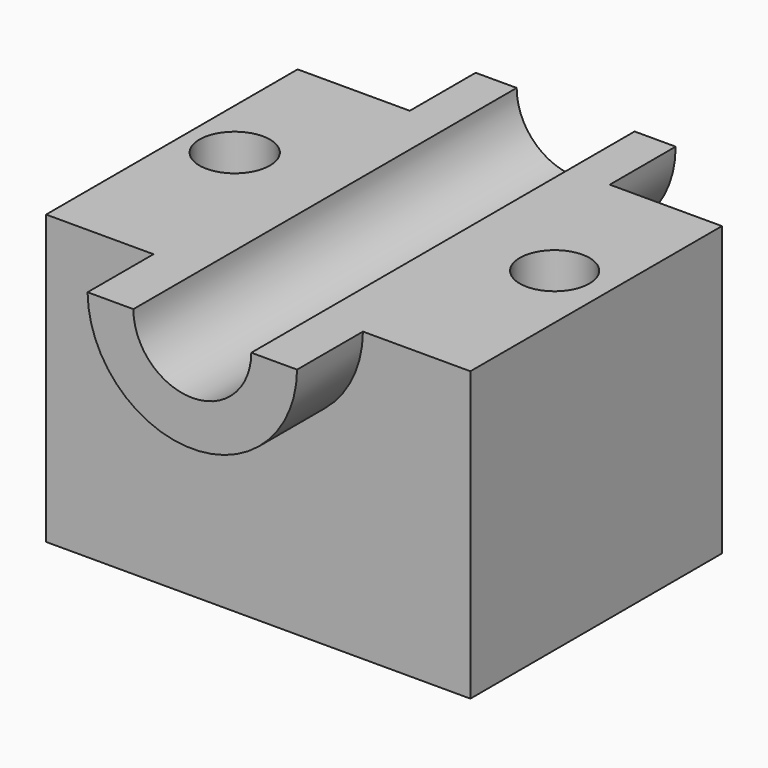
from build123d import *

# Parameters (mm, degrees)
F0_W     = 130.8771371841
F0_H     = 96.983704716
F1_DEPTH = 88.9
F3_DEPTH = 25.4
F5_DEPTH = 25.4
F6_R     = 18.1870915774
F7_DEPTH = 147.784704716
F8_R     = 10.7412616006
F8_R_2   = 10.8772665054
F9_DEPTH = 50.8


with BuildPart() as f1:
    # F0 (on Top) → F1 (new body)
    with BuildSketch(Plane.XY):
        with Locations((12.1337100863, -29.4696222991)):
            Rectangle(F0_W, F0_H)
    extrude(amount=F1_DEPTH)

    # F2 (on face) → F3 (join)
    with BuildSketch(Plane(origin=(0, 19.0222300589, 0), x_dir=(-1, 0, 0), z_dir=(0, 1, 0))):
        with BuildLine():
            Line((18.7113173306, 88.9), (-42.9787375033, 88.9))
            ThreePointArc((-42.9787375033, 88.9), (-12.1337100863, 58.0549725831), (18.7113173306, 88.9))
        make_face()
    extrude(amount=F3_DEPTH)

    # F4 (on face) → F5 (join)
    with BuildSketch(Plane.XZ.offset(77.9614746571)):
        with BuildLine():
            Line((44.4338358939, 88.9), (-20.1796386391, 88.9))
            ThreePointArc((-20.1796386391, 88.9), (12.1270986274, 56.8678088056), (44.4338358939, 88.9))
        make_face()
    extrude(amount=F5_DEPTH)

    # F6 (on face) → F7 (cut, through all)
    with BuildSketch(Plane.XZ.offset(103.3614746571)):
        with Locations((12.1270986274, 88.9)):
            Circle(F6_R)
    extrude(amount=-F7_DEPTH, mode=Mode.SUBTRACT)

    # F8 (on face) → F9 (cut)
    with BuildSketch(Plane.XY.offset(88.9)):
        with Locations((60.6468096375, -24.3307966739)):
            Circle(F8_R)
        with Locations((-38.0332432687, -24.3307966739)):
            Circle(F8_R_2)
    extrude(amount=-F9_DEPTH, mode=Mode.SUBTRACT)


solid = f1.part
